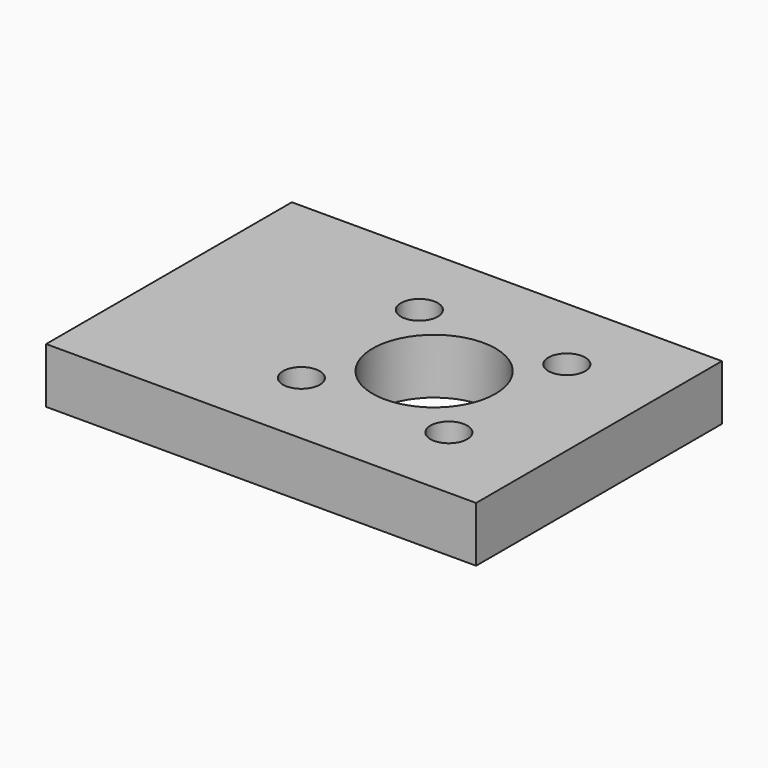
from build123d import *

# Parameters (mm, degrees)
F0_R     = 1.5
F0_R_2   = 5
F1_DEPTH = 4.5


with BuildPart() as f1:
    # F0 (on Top) → F1 (new body)
    with BuildSketch(Plane.XY):
        Polygon((-27.597585, 28.725847), (-62.592236, 28.725847), (-62.597585, 3.733337), (-27.597585, 3.725847), align=None)
        with Locations((-47.017195, 10.225847)):
            Circle(F0_R, mode=Mode.SUBTRACT)
        with Locations((-41.017195, 16.225847)):
            Circle(F0_R_2, mode=Mode.SUBTRACT)
        with Locations((-35.017195, 10.225847)):
            Circle(F0_R, mode=Mode.SUBTRACT)
        with Locations((-47.017195, 22.225847)):
            Circle(F0_R, mode=Mode.SUBTRACT)
        with Locations((-35.017195, 22.225847)):
            Circle(F0_R, mode=Mode.SUBTRACT)
    extrude(amount=F1_DEPTH)


solid = f1.part
